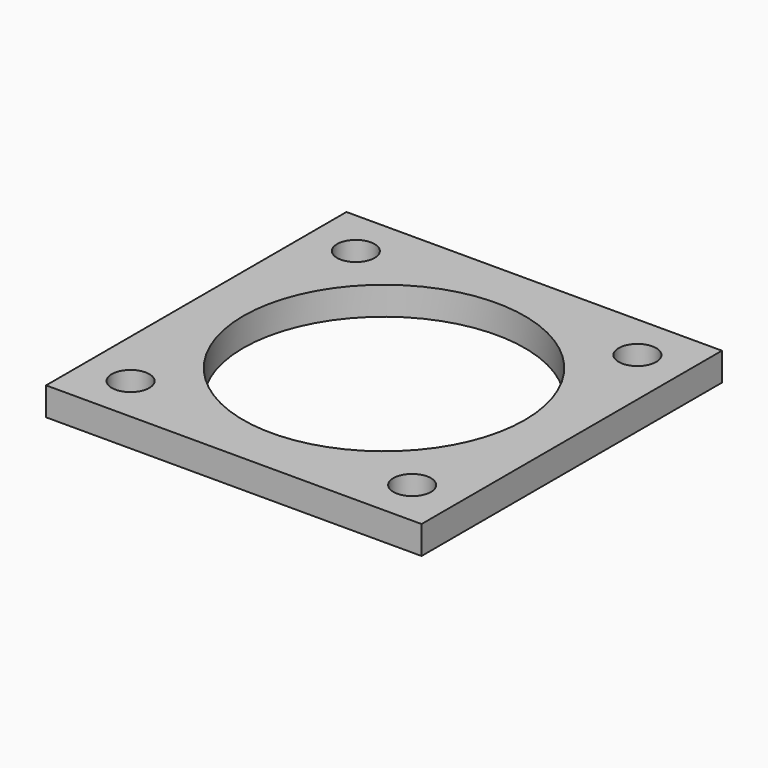
from build123d import *

# Parameters (mm, degrees)
SKETCH_W   = 40
SKETCH_H   = 40
SKETCH_R   = 2
SKETCH_R_2 = 15
PAD_DEPTH  = 3


with BuildPart() as part:
    # Sketch → Pad (new body)
    with BuildSketch(Plane.XY):
        Rectangle(SKETCH_W, SKETCH_H)
        with Locations((-15, 15)):
            Circle(SKETCH_R, mode=Mode.SUBTRACT)
        with Locations((-15, -15)):
            Circle(SKETCH_R, mode=Mode.SUBTRACT)
        with Locations((15, -15)):
            Circle(SKETCH_R, mode=Mode.SUBTRACT)
        with Locations((15, 15)):
            Circle(SKETCH_R, mode=Mode.SUBTRACT)
        Circle(SKETCH_R_2, mode=Mode.SUBTRACT)
    extrude(amount=PAD_DEPTH)


solid = part.part
